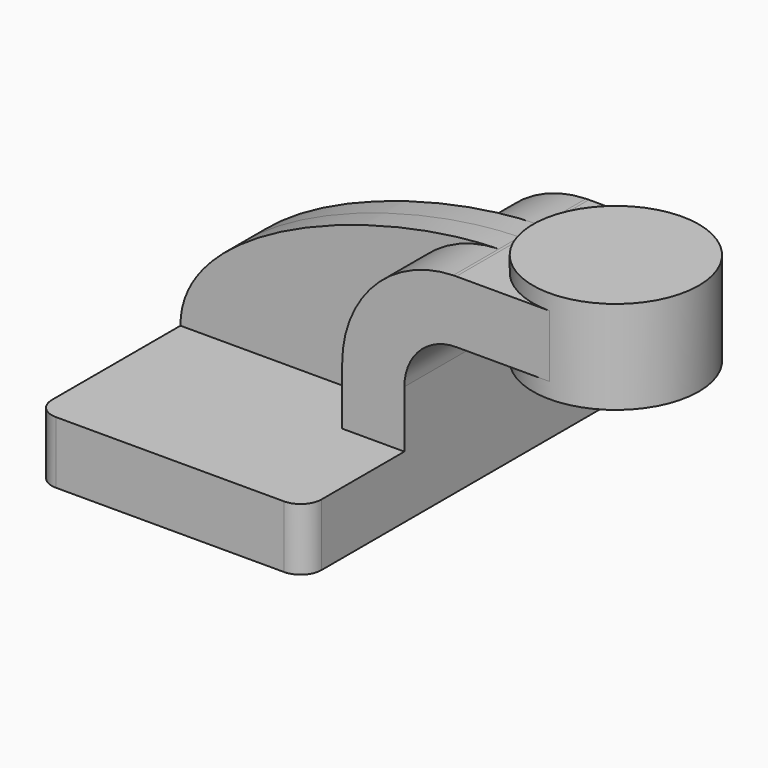
from build123d import *

# Parameters (mm, degrees)
F1_DEPTH  = 63.5
F2_DEPTH  = 25.4
F3_DEPTH  = 7.9375
F2_FACE_W = 50.8
F2_FACE_H = 19.05
F4_DEPTH  = 25.4
F6_R      = 6.35


with BuildPart() as f1:
    # F0 (on Front) → F1 (new body, symmetric)
    with BuildSketch(Plane.XZ):
        Polygon((-41.275, -9.525), (41.275, -9.525), (41.275, 9.525), (22.225, 9.525), (-41.275, 9.525), align=None)
    extrude(amount=F1_DEPTH, both=True)

    # F0 (on Front) → F2 (join, symmetric)
    with BuildSketch(Plane.XZ):
        with BuildLine():
            Line((22.225, 9.525), (41.275, 9.525))
            Line((41.275, 9.525), (41.275, 27.0002))
            ThreePointArc((41.275, 27.0002), (45.92468, 38.22552), (57.15, 42.8752))
            Line((57.15, 42.8752), (60.325, 42.8752))
            Line((60.325, 42.8752), (60.325, 61.9252))
            Line((60.325, 61.9252), (57.15, 61.9252))
            add(Edge.make_bspline(
                [(56.246263, 61.913505), (56.548882, 61.918749), (56.850141, 61.92265), (57.15, 61.9252)],
                knots=[110.625514, 110.625514, 110.625514, 110.625514, 111.504536, 111.504536, 111.504536, 111.504536], degree=3))
            ThreePointArc((56.246263, 61.913505), (32.136817, 51.374291), (22.225, 27.0002))
            Line((22.225, 27.0002), (22.225, 9.525))
        make_face()
    extrude(amount=F2_DEPTH, both=True)

    # F0 (on Front) → F3 (join, symmetric)
    with BuildSketch(Plane.XZ):
        with BuildLine():
            add(Edge.make_bspline(
                [(-41.275, 9.525), (-41.458409, 39.311917), (18.161459, 61.253523), (56.246263, 61.913505)],
                knots=[0, 0, 0, 0, 110.625514, 110.625514, 110.625514, 110.625514], degree=3))
            Line((-41.275, 9.525), (22.225, 9.525))
            Line((22.225, 9.525), (22.225, 27.0002))
            ThreePointArc((22.225, 27.0002), (32.136817, 51.374291), (56.246263, 61.913505))
        make_face()
    extrude(amount=F3_DEPTH, both=True)

    # F2_face (on face) → F4 (join, through all)
    with BuildSketch(Plane(origin=(60.325, 0, 52.4002), x_dir=(0, 1, 0), z_dir=(1, 0, 0))):
        Rectangle(F2_FACE_W, F2_FACE_H)
    extrude(amount=F4_DEPTH)

    # F0 (on Front) → F5 (revolve)
    with BuildSketch(Plane.XZ):
        Polygon((85.725, 61.9252), (85.725, 42.8752), (85.725, 38.1), (111.125, 38.1), (111.125, 66.675), (85.725, 66.675), align=None)
    revolve(axis=Axis((85.725, 0, 52.3875), (0, 0, 1)))

    # F6
    f6_edges = [f1.edges().sort_by_distance(p)[0] for p in [
        (41.275, 63.5, 0),
        (-41.275, 63.5, 0),
        (-41.275, -63.5, 0),
        (41.275, -63.5, 0),
    ]]
    fillet(f6_edges, radius=F6_R)


solid = f1.part
